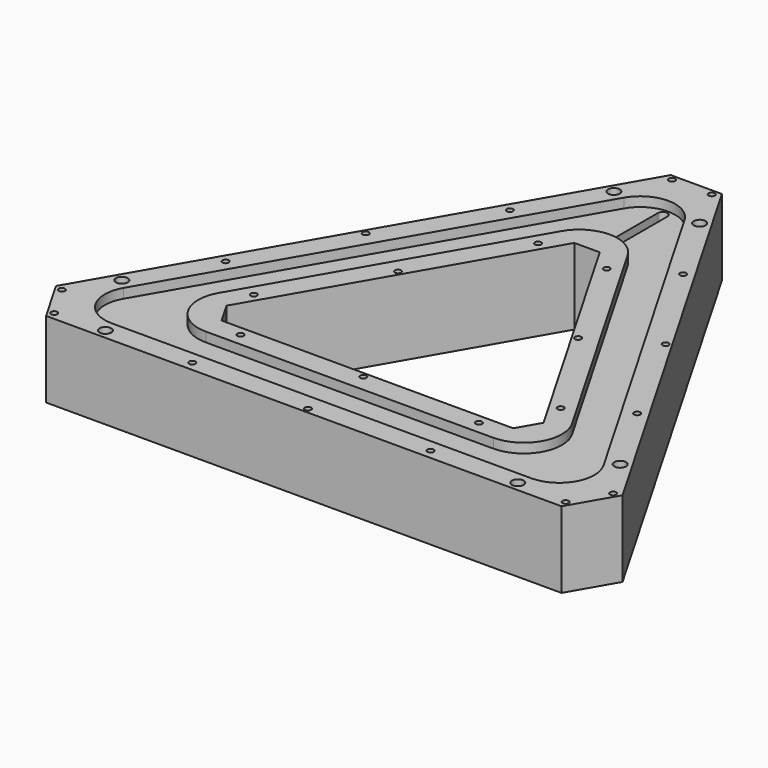
from build123d import *

# Parameters (mm, degrees)
PAD_DEPTH             = 24
POCKET_DEPTH          = 3
SKETCH002_W           = 70
SKETCH002_H           = 18.5
POCKET001_DEPTH       = 18
POLARPATTERN_COUNT    = 3
POCKET002_DEPTH       = 6
CHAMFER_SIZE          = 8
FILLET_R              = 13
FILLET001_R           = 11
CHAMFER001_SIZE       = 16.1
FILLET002_R           = 11
FILLET003_R           = 12
POCKET003_DEPTH       = 6
POCKET004_DEPTH       = 18
POCKET005_DEPTH       = 21.001
SKETCH007_W           = 15.5
SKETCH007_H           = 15
POCKET006_DEPTH       = 5
SKETCH010_W           = 13.6
SKETCH010_H           = 9
POCKET009_DEPTH       = 15.5
POCKET010_DEPTH       = 3
SKETCH012_R           = 1.85
SKETCH012_R_2         = 0.99
POCKET011_DEPTH       = 498.0492855781
POLARPATTERN001_COUNT = 3
POCKET012_DEPTH       = 12
POCKET013_DEPTH       = 3
POCKET014_DEPTH       = 3


with BuildPart() as part:
    # Sketch → Pad (new body)
    with BuildSketch(Plane.XY):
        Polygon((0, 112.2094915052), (-97.1762701892, -56.1047457526), (97.1762701892, -56.1047457526), align=None)
        Polygon((0, 62.2094915052), (-53.875, -31.1047457526), (53.875, -31.1047457526), align=None, mode=Mode.SUBTRACT)
    extrude(amount=PAD_DEPTH)

    # Sketch001 (on Face8 of Pad) → Pocket (cut)
    with BuildSketch(Plane.XY.offset(24)):
        Polygon((0, 98.2094915052), (-85.0519145362, -49.1047457526), (85.0519145362, -49.1047457526), align=None)
        Polygon((0, 76.2094915052), (-65.999355653, -38.1047457526), (65.999355653, -38.1047457526), align=None, mode=Mode.SUBTRACT)
    extrude(amount=-POCKET_DEPTH, mode=Mode.SUBTRACT)

    # Sketch002 (on Face4 of Pocket) → Pocket001 (cut)
    with BuildSketch(Plane(origin=(0, 0, 0), x_dir=(1, 0, 0), z_dir=(0, 0, -1))):
        with Locations((0, 43.6047457526)):
            Rectangle(SKETCH002_W, SKETCH002_H)
    pocket001 = extrude(amount=-POCKET001_DEPTH, mode=Mode.SUBTRACT)

    # PolarPattern: Pocket001 ×3 about axis
    polarpattern_axis = Axis((0, 0, 0), (0, 0, -1))
    for i in range(1, POLARPATTERN_COUNT):
        add(pocket001.rotate(polarpattern_axis, i * 360 / POLARPATTERN_COUNT), mode=Mode.SUBTRACT)

    # Sketch003 (on Face4 of PolarPattern) → Pocket002 (cut)
    with BuildSketch(Plane(origin=(0, 0, 0), x_dir=(1, 0, 0), z_dir=(0, 0, -1))):
        Polygon((0, -100.2094915052), (86.7839653438, 50.1047457526), (-86.7839653438, 50.1047457526), align=None)
        Polygon((0, -74.2094915052), (64.2673048454, 37.1047457526), (-64.2673048454, 37.1047457526), align=None, mode=Mode.SUBTRACT)
    extrude(amount=-POCKET002_DEPTH, mode=Mode.SUBTRACT)

    # Chamfer
    chamfer_edges = [part.edges().sort_by_distance(p)[0] for p in [
        (-53.875, -31.104746, 12),
        (53.875, -31.104746, 12),
        (0, 62.209492, 12),
    ]]
    chamfer(chamfer_edges, length=CHAMFER_SIZE)

    # Fillet
    fillet_edges = [part.edges().sort_by_distance(p)[0] for p in [
        (0, 100.209492, 3),
        (-86.783965, -50.104746, 3),
        (86.783965, -50.104746, 3),
    ]]
    fillet(fillet_edges, radius=FILLET_R)

    # Fillet001
    fillet001_edges = [part.edges().sort_by_distance(p)[0] for p in [
        (0, 74.209492, 3),
        (64.267305, -37.104746, 3),
        (-64.267305, -37.104746, 3),
    ]]
    fillet(fillet001_edges, radius=FILLET001_R)

    # Chamfer001
    chamfer001_edges = [part.edges().sort_by_distance(p)[0] for p in [
        (97.17627, -56.104746, 12),
        (0, 112.209492, 12),
        (-97.17627, -56.104746, 12),
    ]]
    chamfer(chamfer001_edges, length=CHAMFER001_SIZE)

    # Fillet002
    fillet002_edges = [part.edges().sort_by_distance(p)[0] for p in [
        (0, 98.209492, 22.5),
        (-85.051915, -49.104746, 22.5),
        (85.051915, -49.104746, 22.5),
    ]]
    fillet(fillet002_edges, radius=FILLET002_R)

    # Fillet003
    fillet003_edges = [part.edges().sort_by_distance(p)[0] for p in [
        (65.999356, -38.104746, 22.5),
        (0, 76.209492, 22.5),
        (-65.999356, -38.104746, 22.5),
    ]]
    fillet(fillet003_edges, radius=FILLET003_R)

    # Sketch004 (on Face60 of Fillet003) → Pocket003 (cut)
    with BuildSketch(Plane(origin=(0, 0, 6), x_dir=(1, 0, 0), z_dir=(0, 0, -1))):
        Polygon((-8.75, -72.1664825043), (8.75, -72.1664825043), (8.75, -94.7664825043), (4, -94.7664825043), (4, -98.2664825043), (-4, -98.2664825043), (-4, -94.7664825043), (-8.75, -94.7664825043), align=None)
    extrude(amount=-POCKET003_DEPTH, mode=Mode.SUBTRACT)

    # Sketch005 (on Face29 of Pocket003) → Pocket004 (cut)
    with BuildSketch(Plane(origin=(0, 0, 0), x_dir=(1, 0, 0), z_dir=(0, 0, -1))):
        Polygon((46.1715988394, 38.9547457526), (68.6882593378, 51.9547457526), (79.3382593378, 33.508404652), (56.8215988394, 20.508404652), align=None)
    extrude(amount=-POCKET004_DEPTH, mode=Mode.SUBTRACT)

    # Sketch006 (on Face1 of Pocket004) → Pocket005 (cut, through all)
    with BuildSketch(Plane.XY.offset(21)):
        with BuildLine():
            ThreePointArc((1.5, 85.0404521425), (0, 86.5404521425), (-1.5, 85.0404521425))
            Line((-1.5, 85.0404521425), (-1.5, 66.0404521425))
            ThreePointArc((-1.5, 66.0404521425), (0, 64.5404521425), (1.5, 66.0404521425))
            Line((1.5, 85.0404521425), (1.5, 66.0404521425))
        make_face()
    extrude(amount=-POCKET005_DEPTH, mode=Mode.SUBTRACT)

    # Sketch007 (on Face24 of Pocket005) → Pocket006 (cut)
    with BuildSketch(Plane(origin=(-48.5881350946, 28.0523728763, 0), x_dir=(-0.5, -0.8660254038, 0), z_dir=(-0.8660254038, 0.5, 0))):
        with Locations((-47.3262701892, 13.5)):
            Rectangle(SKETCH007_W, SKETCH007_H)
    extrude(amount=-POCKET006_DEPTH, mode=Mode.SUBTRACT)

    # Sketch010 (on Face79 of Pocket006) → Pocket009 (cut)
    with BuildSketch(Plane(origin=(-44.2580080757, 25.5523728763, 0), x_dir=(-0.5, -0.8660254038, 0), z_dir=(-0.8660254038, 0.5, 0))):
        with Locations((-47.3262701892, 13.5)):
            Rectangle(SKETCH010_W, SKETCH010_H)
    extrude(amount=-POCKET009_DEPTH, mode=Mode.SUBTRACT)

    # Sketch011 (on Face21 of Pocket009) → Pocket010 (cut)
    with BuildSketch(Plane(origin=(0, 0, 6), x_dir=(1, 0, 0), z_dir=(0, 0, -1))):
        Polygon((-21.0413798427, -59.7570681827), (-11.6817654684, -54.3532923042), (-6.658482036, -63.0538744299), (-16.0180964103, -68.4576503084), align=None)
    extrude(amount=-POCKET010_DEPTH, mode=Mode.SUBTRACT)

    # Sketch012 (on Face54 of Pocket010) → Pocket011 (cut, through all)
    with BuildSketch(Plane(origin=(0, 0, 0), x_dir=(1, 0, 0), z_dir=(0, 0, -1))):
        with Locations((-13.5, -82.7032108255)):
            Circle(SKETCH012_R)
        with Locations((13.5, -82.7032108255)):
            Circle(SKETCH012_R)
        with Locations((-6.25, -96.5164825043)):
            Circle(SKETCH012_R_2)
        with Locations((6.25, -96.5164825043)):
            Circle(SKETCH012_R_2)
        with Locations((-27.2463245869, -59.0174730012)):
            Circle(SKETCH012_R_2)
        with Locations((-47.1862074814, -27.2405827309)):
            Circle(SKETCH012_R_2)
        with Locations((-64.7337931796, 5.9127272486)):
            Circle(SKETCH012_R_2)
        with Locations((-10.791841915, -49.5174730012)):
            Circle(SKETCH012_R_2)
        with Locations((-28.3394276132, -16.3641630217)):
            Circle(SKETCH012_R_2)
        with Locations((-48.2793105078, 15.4127272487)):
            Circle(SKETCH012_R_2)
    pocket011 = extrude(amount=-POCKET011_DEPTH, mode=Mode.SUBTRACT)

    # PolarPattern001: Pocket011 ×3 about axis
    polarpattern001_axis = Axis((0, 0, 0), (0, 0, -1))
    for i in range(1, POLARPATTERN001_COUNT):
        add(pocket011.rotate(polarpattern001_axis, i * 360 / POLARPATTERN001_COUNT), mode=Mode.SUBTRACT)

    # Sketch013 (on Face132 of PolarPattern001) → Pocket012 (cut)
    with BuildSketch(Plane(origin=(0, 0, 6), x_dir=(1, 0, 0), z_dir=(0, 0, -1))):
        Polygon((58.553649647, 21.508404652), (63.3167893678, 24.258404652), (66.3167893678, 19.0622522293), (61.553649647, 16.3122522293), align=None)
    extrude(amount=-POCKET012_DEPTH, mode=Mode.SUBTRACT)

    # Sketch014 (on Face127 of Pocket012) → Pocket013 (cut)
    with BuildSketch(Plane(origin=(0, 0, 6), x_dir=(1, 0, 0), z_dir=(0, 0, -1))):
        Polygon((-74.3478338252, 33.3748379063), (-65.8478338252, 48.0972697706), (-52.8574527684, 40.5972697706), (-61.3574527684, 25.8748379063), align=None)
    extrude(amount=-POCKET013_DEPTH, mode=Mode.SUBTRACT)

    # Sketch015 (on Face21 of Pocket013) → Pocket014 (cut)
    with BuildSketch(Plane(origin=(0, 0, 6), x_dir=(1, 0, 0), z_dir=(0, 0, -1))):
        with BuildLine():
            ThreePointArc((-8.75, -63.0538744299), (-13.3063040372, -67.6101784671), (-8.75, -72.1664825043))
            Line((-8.75, -72.1664825043), (8.75, -72.1664825043))
            ThreePointArc((8.75, -72.1664825043), (13.3063040372, -67.6101784671), (8.75, -63.0538744299))
            Line((-8.75, -63.0538744299), (8.75, -63.0538744299))
        make_face()
    extrude(amount=-POCKET014_DEPTH, mode=Mode.SUBTRACT)


solid = part.part
